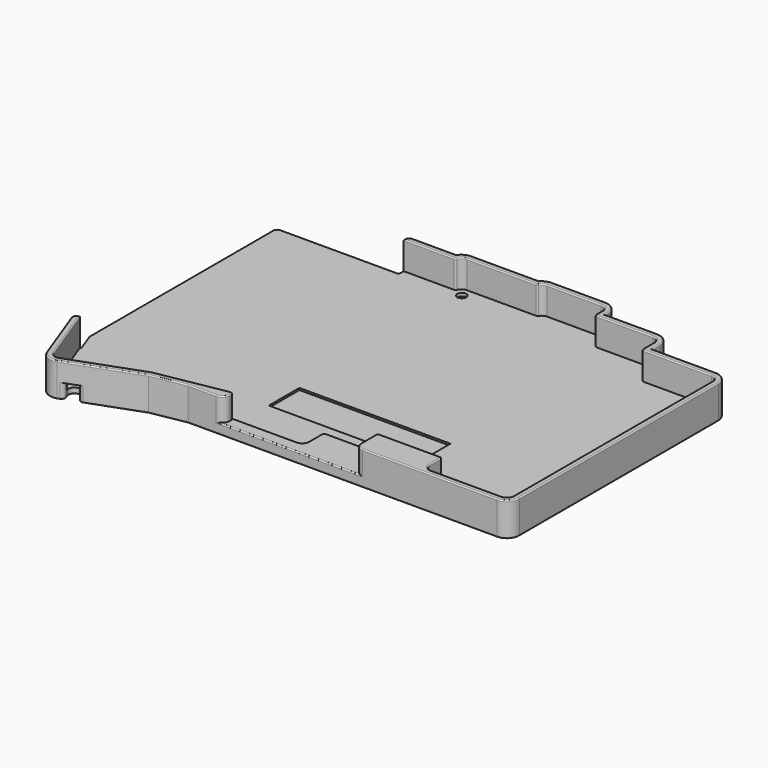
from build123d import *

# Parameters (mm, degrees)
PAD011_DEPTH         = 7.3
PAD011_DEPTH_BACK    = 1.5
POCKET013_DEPTH      = 10
SKETCH032_W          = 7.516364
SKETCH032_H          = 7.12941
POCKET014_DEPTH      = 10
POCKET014_DEPTH_BACK = 10
SKETCH033_R          = 1.2
SKETCH033_R_2        = 1.1
POCKET015_DEPTH      = 20
FILLET004_R          = 1
FILLET005_R          = 0.499
SKETCH035_R          = 2.5
POCKET017_DEPTH      = 5
SKETCH034_W          = 39.5
SKETCH034_H          = 10
POCKET016_DEPTH      = 0.5
POCKET018_DEPTH      = 10
FILLET006_R          = 2
FILLET007_R          = 0.5
POCKET020_DEPTH      = 5
POCKET020_DEPTH_BACK = 2.4
FILLET010_R          = 1
FILLET008_R          = 0.299


with BuildPart() as part:
    # Sketch029 → Pad011 (new body, two sides)
    with BuildSketch(Plane.XY.offset(-5.1)) as pad011_sk:
        with BuildLine():
            Line((78.000001, -76.1), (15.615872, -76.1))
            Line((6.65976, -77.728932), (15.615872, -76.1))
            Line((-11.88183, -84.480745), (6.65976, -77.728932))
            ThreePointArc((-16.10595, -82.524941), (-14.397471, -84.374493), (-11.88183, -84.480745))
            Line((-21.988183, -66.62453), (-16.10595, -82.524941))
            Line((-20.3, -66), (-21.988183, -66.62453))
            Line((-22.1, -61.054541), (-20.3, -66))
            Line((-22.1, 0), (-22.1, -61.054541))
            Line((8.1, 0), (-22.1, 0))
            Line((8.1, 3.1), (8.1, 0))
            Line((22.434137, 3.1), (8.1, 3.1))
            ThreePointArc((25.199999, 4.6), (23.626787, 4.200862), (22.434137, 3.1))
            Line((42.840325, 4.6), (25.199999, 4.6))
            ThreePointArc((45.3, 5.7), (43.952781, 5.412474), (42.840325, 4.6))
            Line((59.400001, 5.7), (45.3, 5.7))
            ThreePointArc((62.7, 2.400001), (61.733452, 4.733452), (59.400001, 5.7))
            Line((62.7, 1.4), (62.7, 2.400001))
            Line((76.400001, 1.4), (62.7, 1.4))
            ThreePointArc((79.7, -1.899999), (78.733452, 0.433452), (76.400001, 1.4))
            Line((79.7, -4.5), (79.7, -1.899999))
            Line((96.400001, -4.5), (79.7, -4.5))
            ThreePointArc((99.7, -7.799999), (98.733452, -5.466548), (96.400001, -4.5))
            Line((99.7, -59.8), (99.7, -7.799999))
            Line((99.7, -72.800001), (99.7, -59.8))
            ThreePointArc((96.400001, -76.1), (98.733452, -75.133452), (99.7, -72.800001))
            Line((78.000001, -76.1), (96.400001, -76.1))
        make_face()
    extrude(amount=PAD011_DEPTH)
    extrude(pad011_sk.sketch, amount=-PAD011_DEPTH_BACK)

    # Sketch031 → Pocket013 (cut)
    with BuildSketch(Plane.XY.offset(-5.1)):
        with BuildLine():
            Line((-22.1, 0.3), (5, 0.3))
            Line((9.6, 0.3), (5, 0.3))
            Line((9.6, 1.3), (9.6, 0.3))
            ThreePointArc((9.9, 1.6), (9.687868, 1.512132), (9.6, 1.3))
            Line((23.425176, 1.6), (9.9, 1.6))
            ThreePointArc((25.2, 3.1), (24.038105, 2.674773), (23.425176, 1.6))
            Line((43.641688, 3.1), (25.2, 3.1))
            ThreePointArc((45.3, 4.2), (44.305013, 3.9), (43.641688, 3.1))
            Line((59.4, 4.2), (45.3, 4.2))
            ThreePointArc((61.2, 2.4), (60.672792, 3.672792), (59.4, 4.2))
            Line((61.2, -0.1), (61.2, 2.4))
            Line((76.4, -0.1), (61.2, -0.1))
            ThreePointArc((78.2, -1.9), (77.672792, -0.627208), (76.4, -0.1))
            Line((78.2, -6), (78.2, -1.9))
            Line((96.4, -6), (78.2, -6))
            ThreePointArc((98.2, -7.8), (97.672792, -6.527208), (96.4, -6))
            Line((98.2, -59.8), (98.2, -7.8))
            Line((98.2, -72.8), (98.2, -59.8))
            ThreePointArc((96.4, -74.6), (97.672792, -74.072792), (98.2, -72.8))
            Line((78, -74.6), (96.4, -74.6))
            ThreePointArc((76.2, -72.8), (76.727208, -74.072792), (78, -74.6))
            Line((76.2, -68.7), (76.2, -72.8))
            Line((68.6, -68.7), (76.2, -68.7))
            Line((67.1, -68.7), (68.6, -68.7))
            Line((60.7, -68.7), (67.1, -68.7))
            ThreePointArc((58.9, -66.9), (59.427208, -68.172792), (60.7, -68.7))
            Line((58.9, -66.4), (58.9, -66.9))
            Line((51.15, -66.4), (58.9, -66.4))
            Line((49.65, -66.4), (51.15, -66.4))
            Line((43.4, -66.4), (49.65, -66.4))
            Line((43.4, -71.2), (43.4, -66.4))
            ThreePointArc((41.6, -73), (42.872792, -72.472792), (43.4, -71.2))
            Line((41.400037, -73), (41.6, -73))
            Line((24.254102, -73.004276), (41.400037, -73))
            Line((6.266115, -76.275919), (24.254102, -73.004276))
            Line((-12.395075, -83.071263), (6.266115, -76.275919))
            ThreePointArc((-14.699153, -82.00444), (-13.767262, -83.013318), (-12.395075, -83.071263))
            Line((-22.381364, -61.238463), (-14.699153, -82.00444))
            ThreePointArc((-22.4, -61.134375), (-22.395304, -61.187247), (-22.381364, -61.238463))
            Line((-22.4, 0), (-22.4, -61.134375))
            ThreePointArc((-22.1, 0.3), (-22.312132, 0.212132), (-22.4, 0))
        make_face()
    extrude(amount=POCKET013_DEPTH, mode=Mode.SUBTRACT)

    # Sketch032 → Pocket014 (cut, two sides)
    with BuildSketch(Plane.XY.offset(-5.1)) as pocket014_sk:
        with Locations((6.141818, 3.564705)):
            Rectangle(SKETCH032_W, SKETCH032_H)
    extrude(amount=POCKET014_DEPTH, mode=Mode.SUBTRACT)
    extrude(pocket014_sk.sketch, amount=-POCKET014_DEPTH_BACK, mode=Mode.SUBTRACT)

    # Sketch033 → Pocket015 (cut)
    with BuildSketch(Plane.XY):
        with Locations((25.9, 0.6)):
            Circle(SKETCH033_R)
        with Locations((25.9, 0.6)):
            Circle(SKETCH033_R)
        with Locations((95.6, -23.3)):
            Circle(SKETCH033_R_2)
        with Locations((95.6, -57.3)):
            Circle(SKETCH033_R_2)
        with Locations((-14, -73.8)):
            Circle(SKETCH033_R)
    extrude(amount=-POCKET015_DEPTH, mode=Mode.SUBTRACT)

    # Fillet004
    fillet004_edges = [part.edges().sort_by_distance(p)[0] for p in [
        (9.9, 3.1, -2.2),
        (-22.1, 0, -5.85),
        (-21.988183, -66.62453, -2.2),
    ]]
    fillet(fillet004_edges, radius=FILLET004_R)

    # Fillet005
    fillet005_edges = [part.edges().sort_by_distance(p)[0] for p in [
        (23.425176, 1.6, -1.45),
        (43.641688, 3.1, -1.45),
        (61.2, -0.1, -1.45),
        (78.2, -6, -1.45),
        (58.9, -66.4, -1.45),
        (76.2, -68.7, -1.45),
        (43.4, -66.4, -1.45),
        (9.9, 0, -5.85),
    ]]
    fillet(fillet005_edges, radius=FILLET005_R)

    # Sketch035 → Pocket017 (cut)
    with BuildSketch(Plane.XY.offset(-5.9)):
        with Locations((95.6, -23.3)):
            Circle(SKETCH035_R)
        with Locations((95.6, -57.3)):
            Circle(SKETCH035_R)
        with Locations((-14, -73.8)):
            Circle(SKETCH035_R)
        with Locations((25.9, 0.6)):
            Circle(SKETCH035_R)
    extrude(amount=-POCKET017_DEPTH, mode=Mode.SUBTRACT)

    # Sketch034 → Pocket016 (cut)
    with BuildSketch(Plane.XY.offset(-5.1)):
        with Locations((45.25, -57)):
            Rectangle(SKETCH034_W, SKETCH034_H)
    extrude(amount=-POCKET016_DEPTH, mode=Mode.SUBTRACT)

    # Sketch036 → Pocket018 (cut)
    with BuildSketch(Plane.XY.offset(-3.9)):
        Polygon((25, -61.15797), (25, -86.452461), (59.3, -86.452461), (59.3, -68.7), (63.7, -68.7), (63.7, -61.15797), align=None)
    extrude(amount=POCKET018_DEPTH, mode=Mode.SUBTRACT)

    # Fillet006
    fillet006_edges = [part.edges().sort_by_distance(p)[0] for p in [
        (25, -76.1, -0.85),
        (59.3, -76.1, -0.85),
    ]]
    fillet(fillet006_edges, radius=FILLET006_R)

    # Fillet007
    fillet007_edges = [part.edges().sort_by_distance(p)[0] for p in [
        (25, -73.00409, -0.85),
        (59.3, -68.7, -0.85),
    ]]
    fillet(fillet007_edges, radius=FILLET007_R)

    # Sketch038 → Pocket020 (cut, two sides)
    with BuildSketch(Plane.XY.offset(-5.1)) as pocket020_sk:
        with BuildLine():
            Line((-10.968916, -82.240644), (-10.319078, -84.02606))
            Line((-10.319078, -84.02606), (-7.5, -83))
            Line((-7.5, -83), (-8.149838, -81.214584))
            ThreePointArc((-8.149838, -81.214584), (-10.072407, -80.318075), (-10.968916, -82.240644))
        make_face()
    extrude(amount=-POCKET020_DEPTH, mode=Mode.SUBTRACT)
    extrude(pocket020_sk.sketch, amount=POCKET020_DEPTH_BACK, mode=Mode.SUBTRACT)

    # Fillet010
    fillet010_edges = [part.edges().sort_by_distance(p)[0] for p in [
        (-10.355838, -83.925064, -4.65),
        (-7.536917, -82.89857, -4.65),
    ]]
    fillet(fillet010_edges, radius=FILLET010_R)

    # Fillet008
    fillet008_edges = [part.edges().sort_by_distance(p)[0] for p in [
        (25, -73.802107, 2.2),
        (24.853509, -73.150617, 2.2),
        (24.414214, -75.514214, 2.2),
        (24.376989, -73.004246, 2.2),
        (19.307936, -76.1, 2.2),
        (15.260108, -74.640098, 2.2),
        (11.137816, -76.914466, 2.2),
        (-3.06448, -79.673591, 2.2),
        (-2.611035, -81.104839, 2.2),
        (-13.767262, -83.013318, 2.2),
        (-14.397471, -84.374493, 2.2),
        (-17.640258, -74.054264, 2.2),
        (-18.873586, -75.043675, 2.2),
        (-20.815834, -66.190829, 2.2),
        (-21.611862, -66.797606, 2.2),
        (42.15, -76.1, -3.9),
        (0.031313, -80.142643, -6.6),
        (-7.361846, -82.523053, -6.6),
        (11.137816, -76.914466, -6.6),
        (-8.014414, -81.586659, -6.6),
        (56.007936, -76.1, -6.6),
        (-10.072407, -80.318075, -6.6),
        (98.733452, -75.133452, -6.6),
        (-10.833361, -82.61308, -6.6),
        (99.7, -40.3, -6.6),
        (-10.731158, -83.750085, -6.6),
        (98.733452, -5.466548, -6.6),
        (-11.588581, -84.373961, -6.6),
        (88.05, -4.5, -6.6),
        (-14.397471, -84.374493, -6.6),
        (79.7, -3.2, -6.6),
        (-18.873586, -75.043675, -6.6),
        (78.733452, 0.433452, -6.6),
        (-21.611862, -66.797606, -6.6),
        (69.55, 1.4, -6.6),
        (-20.675152, -66.138784, -6.6),
        (62.7, 1.9, -6.6),
        (-21.2, -63.527271, -6.6),
        (61.733452, 4.733452, -6.6),
        (-22.1, -31.027271, -6.6),
        (52.35, 5.7, -6.6),
        (-21.807107, -0.292893, -6.6),
        (43.952781, 5.412474, -6.6),
        (-5.8495, 0, -6.6),
        (34.020162, 4.6, -6.6),
        (9.753846, 0.146154, -6.6),
        (23.626787, 4.200862, -6.6),
        (9.9, 1.2995, -6.6),
        (16.667068, 3.1, -6.6),
        (10.192893, 2.807107, -6.6),
        (-16.5, -73.8, -6.6),
        (93.1, -57.3, -6.6),
        (23.4, 0.6, -6.6),
        (93.1, -23.3, -6.6),
        (59.3, -71.65, 2.2),
        (59.446447, -68.846447, 2.2),
        (59.885786, -75.514214, 2.2),
        (67.7505, -68.7, 2.2),
        (78.85, -76.1, 2.2),
        (76.053846, -68.846154, 2.2),
        (98.733452, -75.133452, 2.2),
        (76.2, -70.9995, 2.2),
        (99.7, -40.3, 2.2),
        (76.727208, -74.072792, 2.2),
        (98.733452, -5.466548, 2.2),
        (87.2, -74.6, 2.2),
        (88.05, -4.5, 2.2),
        (97.672792, -74.072792, 2.2),
        (79.7, -3.2, 2.2),
        (98.2, -40.3, 2.2),
        (78.733452, 0.433452, 2.2),
        (97.672792, -6.527208, 2.2),
        (69.55, 1.4, 2.2),
        (87.5495, -6, 2.2),
        (62.7, 1.9, 2.2),
        (78.346154, -5.853846, 2.2),
        (61.733452, 4.733452, 2.2),
        (78.2, -3.7005, 2.2),
        (52.35, 5.7, 2.2),
        (77.672792, -0.627208, 2.2),
        (43.952781, 5.412474, 2.2),
        (69.0495, -0.1, 2.2),
        (34.020162, 4.6, 2.2),
        (61.346154, 0.046154, 2.2),
        (23.626787, 4.200862, 2.2),
        (61.2, 1.3995, 2.2),
        (16.667068, 3.1, 2.2),
        (60.672792, 3.672792, 2.2),
        (10.192893, 2.807107, 2.2),
        (52.35, 4.2, 2.2),
        (9.9, 1.85, 2.2),
        (44.419591, 3.969994, 2.2),
        (16.472155, 1.6, 2.2),
        (43.582488, 3.163763, 2.2),
        (23.329321, 1.689403, 2.2),
        (34.269209, 3.1, 2.2),
        (24.171904, 2.777504, 2.2),
    ]]
    fillet(fillet008_edges, radius=FILLET008_R)


solid = part.part
